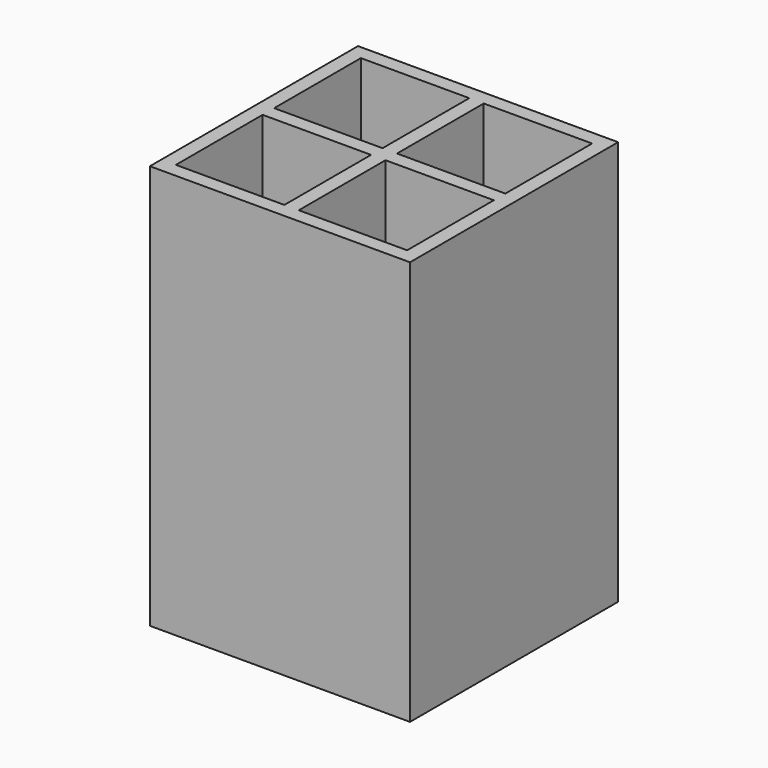
from build123d import *

# Parameters (mm, degrees)
F0_W     = 57.15
F0_H     = 88.9
F1_DEPTH = 57.15
F2_W     = 23.8252
F2_H     = 23.8125
F3_DEPTH = 85.725
F4_W     = 23.7998
F4_H     = 23.8125
F5_DEPTH = 85.725
F6_W     = 23.8125
F6_H     = 23.8125
F7_DEPTH = 85.725
F8_W     = 23.8125
F8_H     = 23.8125
F9_DEPTH = 85.725


with BuildPart() as f1:
    # F0 (on Front) → F1 (new body)
    with BuildSketch(Plane.XZ):
        with Locations((-11.836324, 23.432517)):
            Rectangle(F0_W, F0_H)
    extrude(amount=F1_DEPTH)

    # F2 (on face) → F3 (cut)
    with BuildSketch(Plane.XY.offset(67.882517)):
        with Locations((-25.323724, -42.06875)):
            Rectangle(F2_W, F2_H)
    extrude(amount=-F3_DEPTH, mode=Mode.SUBTRACT)

    # F4 (on face) → F5 (cut)
    with BuildSketch(Plane.XY.offset(67.882517)):
        with Locations((1.663776, -42.06875)):
            Rectangle(F4_W, F4_H)
    extrude(amount=-F5_DEPTH, mode=Mode.SUBTRACT)

    # F6 (on face) → F7 (cut)
    with BuildSketch(Plane.XY.offset(67.882517)):
        with Locations((-25.330074, -15.08125)):
            Rectangle(F6_W, F6_H)
    extrude(amount=-F7_DEPTH, mode=Mode.SUBTRACT)

    # F8 (on face) → F9 (cut)
    with BuildSketch(Plane.XY.offset(67.882517)):
        with Locations((1.657426, -15.08125)):
            Rectangle(F8_W, F8_H)
    extrude(amount=-F9_DEPTH, mode=Mode.SUBTRACT)


solid = f1.part
